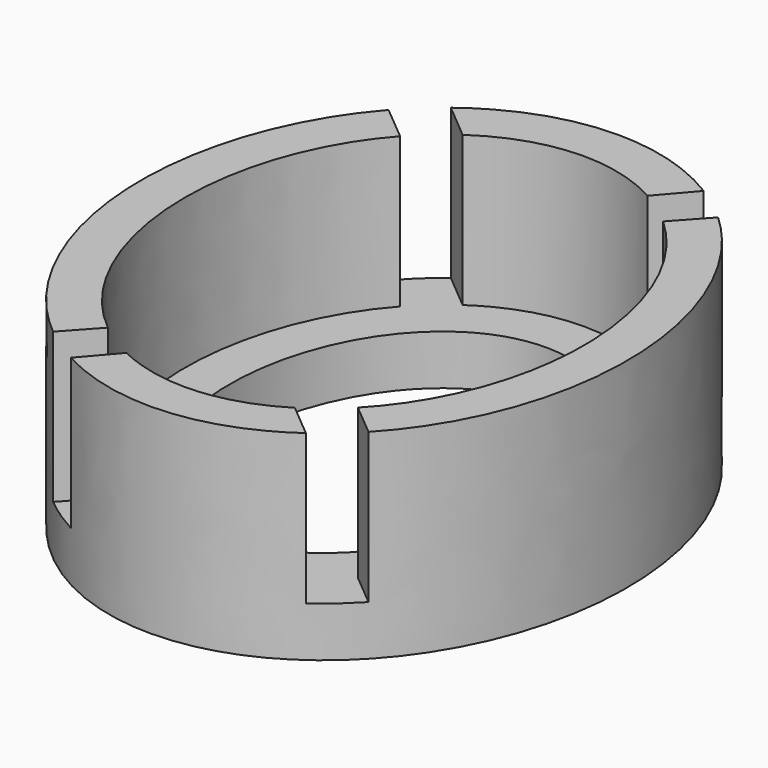
from build123d import *

# Parameters (mm, degrees)
PAD005_DEPTH            = 3
BODY005_PLACEMENT_ANGLE = 180
PAD004_DEPTH            = 3
PAD003_DEPTH            = 4.15
PAD002_DEPTH            = 3.5
PAD001_DEPTH            = 4


with BuildPart() as body005:
    # Sketch005 → Pad005 (new body)
    with BuildSketch(Plane.XY):
        Polygon((-4.591754, 12.714419), (0.004513, 8.857693), (3.917215, 13.406404), (4.70737, 12.793497), (-0.006046, 7.618198), (-5.381909, 12.101512), align=None)
    extrude(amount=PAD005_DEPTH)


with BuildPart() as body005_1:
    # Body005 placement: moved
    add(body005.part.moved(Location((0, 10.87, 1))).rotate(Axis((0, 10.87, 1), (0, 0, 1)), BODY005_PLACEMENT_ANGLE))


with BuildPart() as body004:
    # Sketch004 → Pad004 (new body)
    with BuildSketch(Plane.XY):
        Polygon((-4.591754, 12.714419), (0.004513, 8.857693), (3.917215, 13.406404), (4.70737, 12.793497), (-0.006046, 7.618198), (-5.381909, 12.101512), align=None)
    extrude(amount=PAD004_DEPTH)


with BuildPart() as body004_1:
    # Body004 placement: moved
    add(body004.part.moved(Location((0, -1.125, 1))))


with BuildPart() as body003:
    # Sketch003 → Pad003 (new body)
    with BuildSketch(Plane.XY):
        with BuildLine():
            add(Edge.make_bspline(
                [(0.014741, 0.000128), (5.383806, 0.056195), (2.635054, 6.177826), (-0.113697, 12.299457), (-2.734011, 6.121759), (-5.354324, -0.05594), (0.014741, 0.000128)],
                knots=[0, 0, 0, 2.094395, 2.094395, 4.18879, 4.18879, 6.283185, 6.283185, 6.283185], degree=2, weights=[1, 0.5, 1, 0.5, 1, 0.5, 1]))
        make_face()
    extrude(amount=PAD003_DEPTH)


with BuildPart() as body003_1:
    # Body003 placement: moved
    add(body003.part.moved(Location((0, 0.875, 0))))


with BuildPart() as body001:
    # Sketch001 → Pad002 (new body)
    with BuildSketch(Plane.XY):
        with BuildLine():
            add(Edge.make_bspline(
                [(-0.007096, -3e-05), (6.921073, 0.021864), (3.433287, 7.51088), (-0.054499, 14.999895), (-3.494881, 7.488985), (-6.935264, -0.021925), (-0.007096, -3e-05)],
                knots=[0, 0, 0, 2.094395, 2.094395, 4.18879, 4.18879, 6.283185, 6.283185, 6.283185], degree=2, weights=[1, 0.5, 1, 0.5, 1, 0.5, 1]))
        make_face()
    extrude(amount=PAD002_DEPTH)


with BuildPart() as body001_1:
    # Body001 placement: moved
    add(body001.part.moved(Location((0, 0, 1))))


with BuildPart() as cut:
    # Sketch002 → Pad001 (new body)
    with BuildSketch(Plane.XY):
        with BuildLine():
            add(Edge.make_bspline(
                [(-0.013903, -0.000104), (8.429703, 0.048837), (4.156821, 8.836718), (-0.116061, 17.624599), (-4.286785, 8.787777), (-8.457509, -0.049046), (-0.013903, -0.000104)],
                knots=[0, 0, 0, 2.094395, 2.094395, 4.18879, 4.18879, 6.283185, 6.283185, 6.283185], degree=2, weights=[1, 0.5, 1, 0.5, 1, 0.5, 1]))
        make_face()
    extrude(amount=PAD001_DEPTH)


with BuildPart() as cut_1:
    # Body002 placement: moved
    add(cut.part.moved(Location((0, -0.85, 0))))

    # Cut036: cut Body001
    add(body001_1.part, mode=Mode.SUBTRACT)

    # Cut037: cut Body003
    add(body003_1.part, mode=Mode.SUBTRACT)

    # Cut035: cut Body004
    add(body004_1.part, mode=Mode.SUBTRACT)

    # Cut: cut Body005
    add(body005_1.part, mode=Mode.SUBTRACT)


solid = cut_1.part
